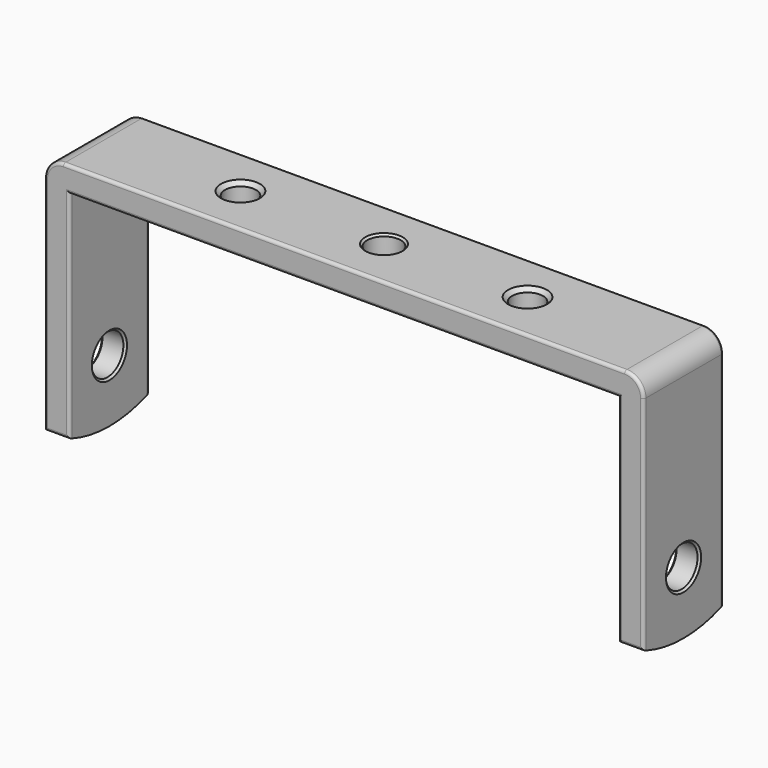
from build123d import *

# Parameters (mm, degrees)
F1_DEPTH = 25.4
F2_R     = 5.08
F3_DEPTH = 152.401
F4_R     = 3.937
F4_R_2   = 4.2545
F5_DEPTH = 63.501
F6_SIZE  = 1.016
F7_SIZE  = 0.508
F8_R     = 4.826
F9_R     = 0.762


with BuildPart() as f1:
    # F0 (on Front) → F1 (new body)
    with BuildSketch(Plane.XZ):
        Polygon((-69.85, -57.15), (-69.85, 0), (0, 0), (69.85, 0), (69.85, -57.15), (76.2, -57.15), (76.2, 6.35), (0, 6.35), (-76.2, 6.35), (-76.2, -57.15), align=None)
    extrude(amount=F1_DEPTH)

    # F2 (on face) → F3 (cut, through all)
    with BuildSketch(Plane(origin=(-76.2, 0, 0), x_dir=(0, -1, 0), z_dir=(-1, 0, 0))):
        with Locations((12.7, -41.275)):
            Circle(F2_R)
        with BuildLine():
            ThreePointArc((25.4, -54.7590686819), (19.1615507536, -56.5470626836), (12.7, -57.15))
            Line((12.7, -57.15), (25.4, -57.15))
            Line((25.4, -57.15), (25.4, -54.7590686819))
        make_face()
        with BuildLine():
            ThreePointArc((12.7, -57.15), (6.2384492464, -56.5470626836), (0, -54.7590686819))
            Line((0, -54.7590686819), (0, -57.15))
            Line((0, -57.15), (12.7, -57.15))
        make_face()
    extrude(amount=-F3_DEPTH, mode=Mode.SUBTRACT)

    # F4 (on face) → F5 (cut, through all)
    with BuildSketch(Plane.XY.offset(6.35)):
        with Locations((-36.5125, -12.7)):
            Circle(F4_R)
        with Locations((0, -12.7)):
            Circle(F4_R_2)
        with Locations((36.5125, -12.7)):
            Circle(F4_R)
    extrude(amount=-F5_DEPTH, mode=Mode.SUBTRACT)

    # F6
    f6_edges = [f1.edges().sort_by_distance(p)[0] for p in [
        (-40.4495, -12.7, 6.35),
        (32.5755, -12.7, 6.35),
        (32.5755, -12.7, 0),
        (-40.4495, -12.7, 0),
    ]]
    chamfer(f6_edges, length=F6_SIZE)

    # F7
    f7_edges = [f1.edges().sort_by_distance(p)[0] for p in [
        (-4.2545, -12.7, 6.35),
        (-4.2545, -12.7, 0),
        (-69.85, -7.62, -41.275),
        (69.85, -7.62, -41.275),
        (76.2, -7.62, -41.275),
        (-76.2, -7.62, -41.275),
    ]]
    chamfer(f7_edges, length=F7_SIZE)

    # F8
    f8_edges = [f1.edges().sort_by_distance(p)[0] for p in [
        (-76.2, -12.7, 6.35),
        (76.2, -12.7, 6.35),
    ]]
    fillet(f8_edges, radius=F8_R)

    # F9
    f9_edges = [f1.edges().sort_by_distance(p)[0] for p in [
        (0, -25.4, 6.35),
        (-73.025, -25.4, -54.759069),
        (-69.85, -25.4, -27.379534),
        (0, -25.4, 0),
        (69.85, -25.4, -27.379534),
        (73.025, -25.4, -54.759069),
        (0, 0, 6.35),
        (69.85, 0, -27.379534),
        (0, 0, 0),
        (-69.85, 0, -27.379534),
        (73.025, 0, -54.759069),
        (-73.025, 0, -54.759069),
    ]]
    fillet(f9_edges, radius=F9_R)


solid = f1.part
